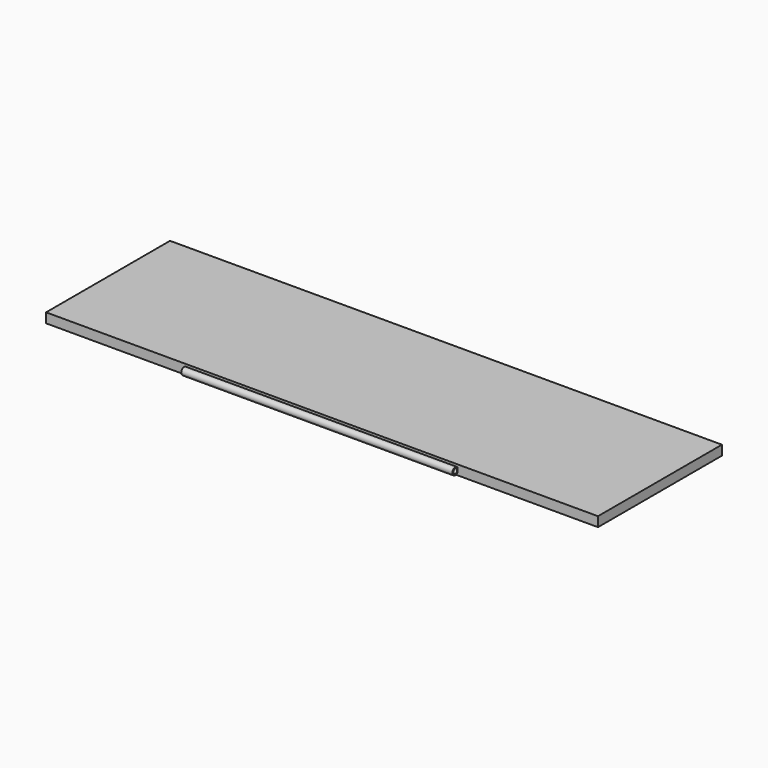
from build123d import *

# Parameters (mm, degrees)
F0_W     = 1447.8
F0_H     = 406.4
F2_DEPTH = 12.7
F1_R     = 9.525
F1_R_2   = 6.35
F3_DEPTH = 355.6


with BuildPart() as f2:
    # F0 (on Top) → F2 (new body, symmetric)
    with BuildSketch(Plane.XY):
        Rectangle(F0_W, F0_H)
    extrude(amount=F2_DEPTH, both=True)

    # F1 (on Right) → F3 (join, symmetric)
    with BuildSketch(Plane.YZ):
        with Locations((-210.82, 0)):
            Circle(F1_R)
        with Locations((-210.82, 0)):
            Circle(F1_R_2, mode=Mode.SUBTRACT)
    extrude(amount=F3_DEPTH, both=True)


solid = f2.part
